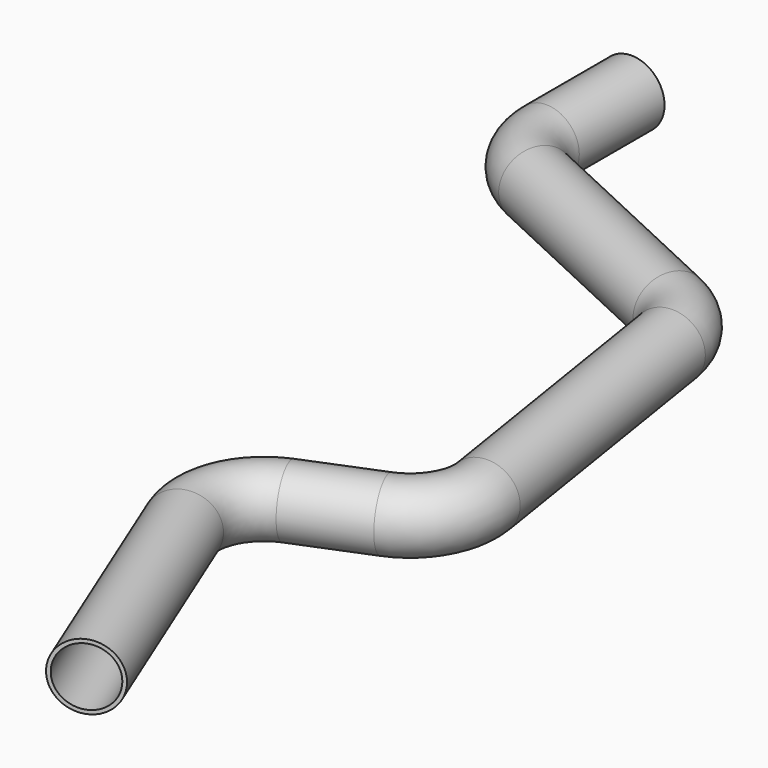
from build123d import *

# Parameters (mm, degrees)
F1_R     = 12.7
F3_T     = -1.4732
F4_R     = 19.05
F5_DEPTH = 19.05


with BuildPart() as f2:
    # F2: sweep along a path in F0
    with BuildLine(Plane.XY) as f2_path:
        Line((0, 0), (0, -60.0184153755))
        ThreePointArc((0, -60.0184153755), (3.9778572764, -73.6658254275), (14.6654961518, -83.0386331662))
        Line((14.6654961518, -83.0386331662), (97.1059675877, -121.4812563387))
        ThreePointArc((97.1059675877, -121.4812563387), (106.6568056947, -129.2153725414), (111.4587475906, -140.5280387174))
        Line((111.4587475906, -140.5280387174), (129.0377511912, -251.517499327))
        ThreePointArc((129.0377511912, -251.517499327), (126.0672881815, -267.9811803678), (113.502341373, -279.0264760002))
        Line((113.502341373, -279.0264760002), (85.1222056026, -290.5445234888))
        ThreePointArc((85.1222056026, -290.5445234888), (71.2777439091, -304.192118827), (71.1385383743, -323.6319387829))
        Line((71.1385383743, -323.6319387829), (109.346034506, -417.7741038279))
    # F1 (on Front) → F2 (sweep)
    with BuildSketch(Plane.XZ):
        Circle(F1_R)
    sweep(path=f2_path.line)

    # F3
    f3_openings = [f2.faces().sort_by_distance(p)[0] for p in [
        (0, 0, 0),
        (109.346035, -417.774104, 0),
    ]]
    offset(amount=F3_T, openings=f3_openings)

    # F4 (on face) → F5 (cut)
    with BuildSketch(Plane(origin=(0, 0, 0), x_dir=(-1, 0, 0), z_dir=(0, 1, 0))):
        Circle(F4_R)
    extrude(amount=-F5_DEPTH, mode=Mode.SUBTRACT)


solid = f2.part
